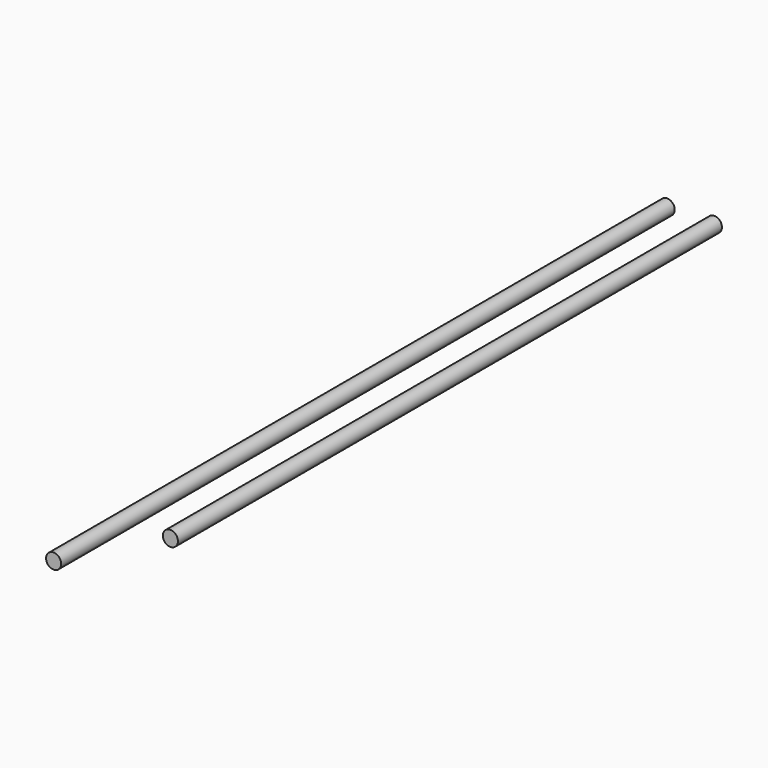
from build123d import *

# Parameters (mm, degrees)
F0_R     = 4
F1_DEPTH = 406
F2_DEPTH = 360


with BuildPart() as f1:
    # F0 (on Front) → F1 (new body)
    with BuildSketch(Plane.XZ):
        Circle(F0_R)
    extrude(amount=F1_DEPTH)


with BuildPart() as f2:
    # F0 (on Front) → F2 (new body)
    with BuildSketch(Plane.XZ):
        with Locations((25, 0)):
            Circle(F0_R)
    extrude(amount=F2_DEPTH)


solid = Compound([f1.part, f2.part])
